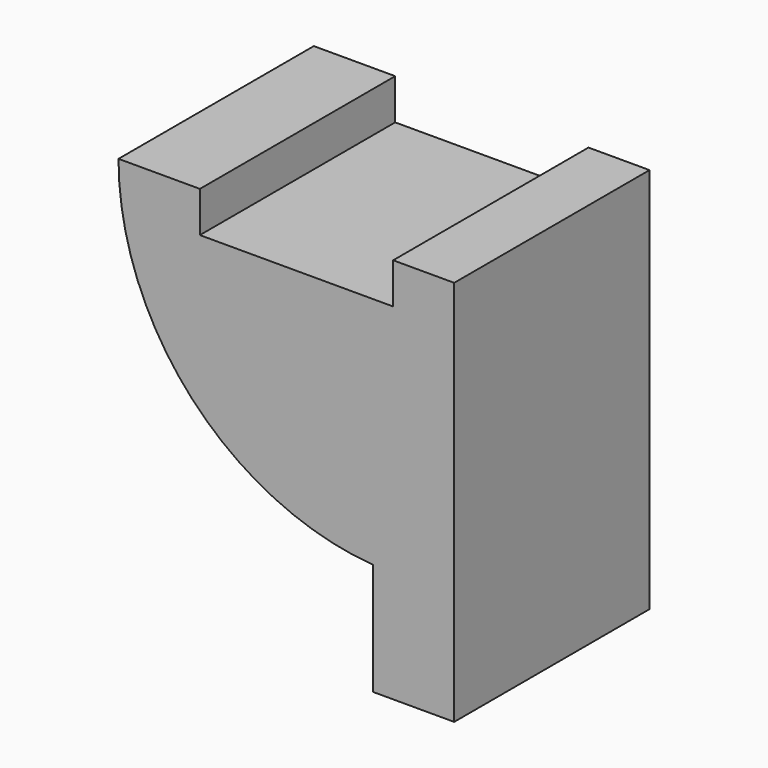
from build123d import *

# Parameters (mm, degrees)
F1_DEPTH = 12


with BuildPart() as f1:
    # F0 (on Front) → F1 (new body)
    with BuildSketch(Plane.XZ):
        with BuildLine():
            Line((0, -9.5), (0, 7.5))
            Line((0, 7.5), (-9.5, 7.5))
            Line((-9.5, 7.5), (-9.5, 9.5))
            Line((-9.5, 9.5), (-13.5, 9.5))
            ThreePointArc((-13.5, 9.5), (-9.89512, 0.300815), (-1, -4))
            Line((-1, -4), (-1, -9.5))
            Line((-1, -9.5), (0, -9.5))
        make_face()
        Polygon((3, 9.5), (0, 9.5), (0, 7.5), (0, -9.5), (3, -9.5), align=None)
    extrude(amount=F1_DEPTH)


solid = f1.part
